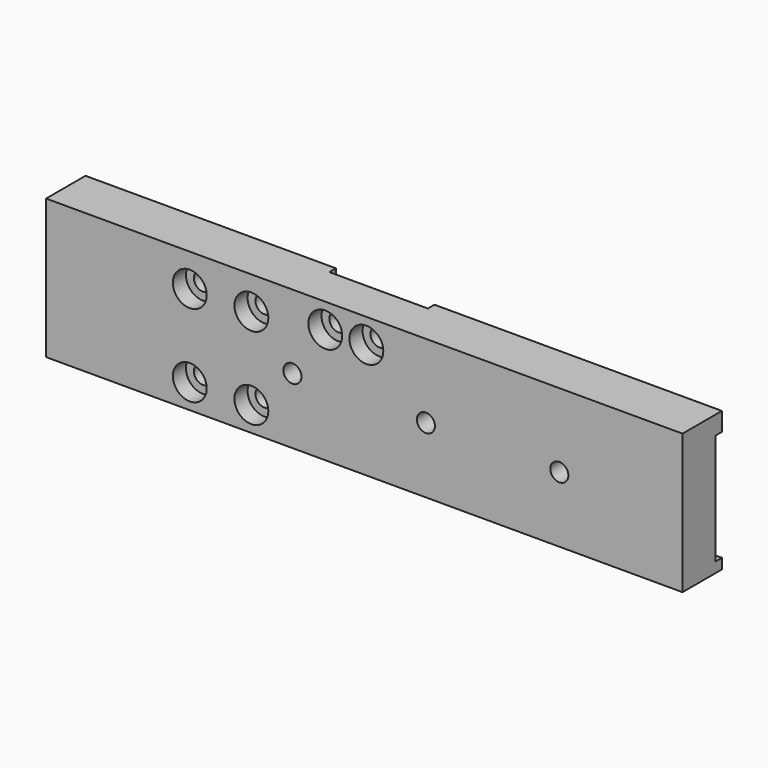
from build123d import *

# Parameters (mm, degrees)
F0_W           = 155
F0_H           = 34
F1_DEPTH       = 10
F2_W           = 61
F2_H           = 4.5
F2_W_2         = 70
F2_W_3         = 155
F2_H_2         = 2.5
F3_DEPTH       = 2
F5_D           = 4.4
F5_CBORE_D     = 8.25
F5_CBORE_DEPTH = 4
F7_D           = 4.4
F7_CSINK_D     = 8.96
F7_CSINK_ANGLE = 90
F9_D           = 6.8
F9_DEPTH       = 20
F9_TIP         = 2.0429261047


with BuildPart() as f1:
    # F0 (on Front) → F1 (new body)
    with BuildSketch(Plane.XZ):
        Rectangle(F0_W, F0_H)
    extrude(amount=F1_DEPTH)

    # F2 (on face) → F3 (join)
    with BuildSketch(Plane(origin=(0, 0, 0), x_dir=(-1, 0, 0), z_dir=(0, 1, 0))):
        with Locations((47, 14.75)):
            Rectangle(F2_W, F2_H)
        with Locations((-42.5, 14.75)):
            Rectangle(F2_W_2, F2_H)
        with Locations((0, -15.75)):
            Rectangle(F2_W_3, F2_H_2)
    extrude(amount=F3_DEPTH)

    # F5 (through all)
    with Locations(Plane.XZ.offset(10)):
        with Locations((-42.5, 9), (-27.5, 9), (-9.5, 11), (0.5, 11), (-27.5, -11), (-42.5, -11)):
            CounterBoreHole(F5_D / 2, F5_CBORE_D / 2, F5_CBORE_DEPTH)

    # F7 (through all)
    with Locations(Plane(origin=(0, 0, 0), x_dir=(-1, 0, 0), z_dir=(0, 1, 0))):
        with Locations((-47.5, -1), (-15, -1), (17.5, -1)):
            CounterSinkHole(F7_D / 2, F7_CSINK_D / 2, counter_sink_angle=F7_CSINK_ANGLE)

    # F9
    with Locations(Plane(origin=(-77.5, 0, 0), x_dir=(0, -1, 0), z_dir=(-1, 0, 0))):
        with Locations((5, -1)):
            Hole(F9_D / 2, depth=F9_DEPTH)
            with Locations((0, 0, -(F9_DEPTH + F9_TIP / 2))):  # 118° drill point
                Cone(0, F9_D / 2, F9_TIP, mode=Mode.SUBTRACT)


solid = f1.part
